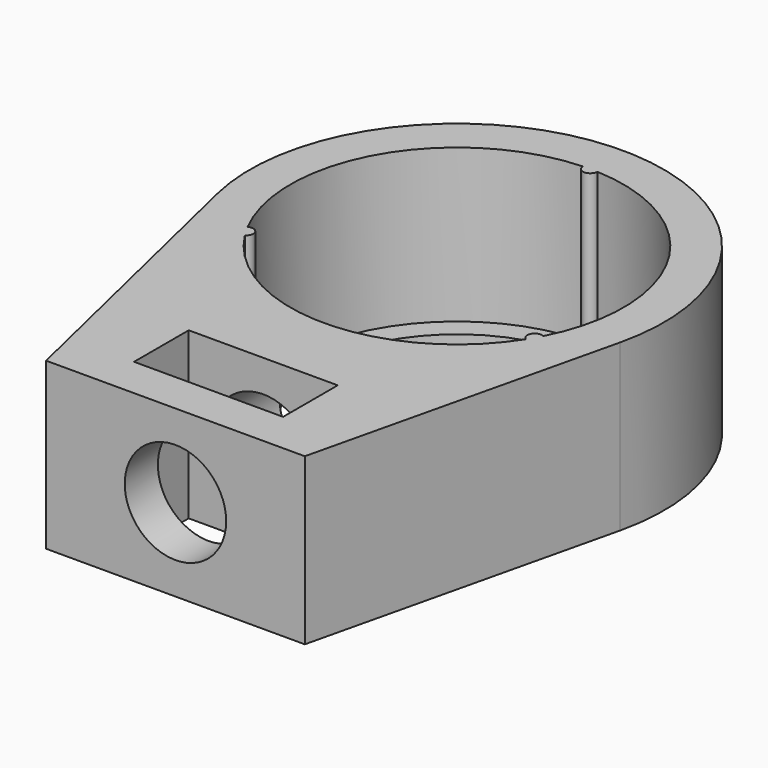
from build123d import *

# Parameters (mm, degrees)
F0_R     = 7
F1_DEPTH = 8
F3_DEPTH = 7.4
F4_R     = 2.45
F5_DEPTH = 12
F6_W     = 7.2
F6_H     = 3.3
F7_DEPTH = 8.001


with BuildPart() as f1:
    # F0 (on Top) → F1 (new body)
    with BuildSketch(Plane.XY):
        with BuildLine():
            Line((6.25, -17), (9.730754, -2.30487))
            ThreePointArc((9.730754, -2.30487), (0, 10), (-9.730754, -2.30487))
            Line((-9.730754, -2.30487), (-6.25, -17))
            Line((-6.25, -17), (6.25, -17))
        make_face()
        Circle(F0_R, mode=Mode.SUBTRACT)
    extrude(amount=F1_DEPTH)

    # F2 (on face) → F3 (cut)
    with BuildSketch(Plane.XY.offset(8)):
        with BuildLine():
            ThreePointArc((0.349917, 8.042391), (0, 7.7), (-0.349917, 8.042391))
            ThreePointArc((-0.349917, 8.042391), (-6.971505, 4.025), (-7.139874, -3.718158))
            ThreePointArc((-7.139874, -3.718158), (-6.668396, -3.85), (-6.789957, -4.324233))
            ThreePointArc((-6.789957, -4.324233), (0, -8.05), (6.789957, -4.324233))
            ThreePointArc((6.789957, -4.324233), (6.668396, -3.85), (7.139874, -3.718158))
            ThreePointArc((7.139874, -3.718158), (6.971505, 4.025), (0.349917, 8.042391))
        make_face()
    extrude(amount=-F3_DEPTH, mode=Mode.SUBTRACT)

    # F4 (on face) → F5 (cut)
    with BuildSketch(Plane.XZ.offset(17)):
        with Locations((0, 4)):
            Circle(F4_R)
    extrude(amount=-F5_DEPTH, mode=Mode.SUBTRACT)

    # F6 (on face) → F7 (cut, through all)
    with BuildSketch(Plane.XY.offset(8)):
        with Locations((0, -13.35)):
            Rectangle(F6_W, F6_H)
    extrude(amount=-F7_DEPTH, mode=Mode.SUBTRACT)


solid = f1.part
